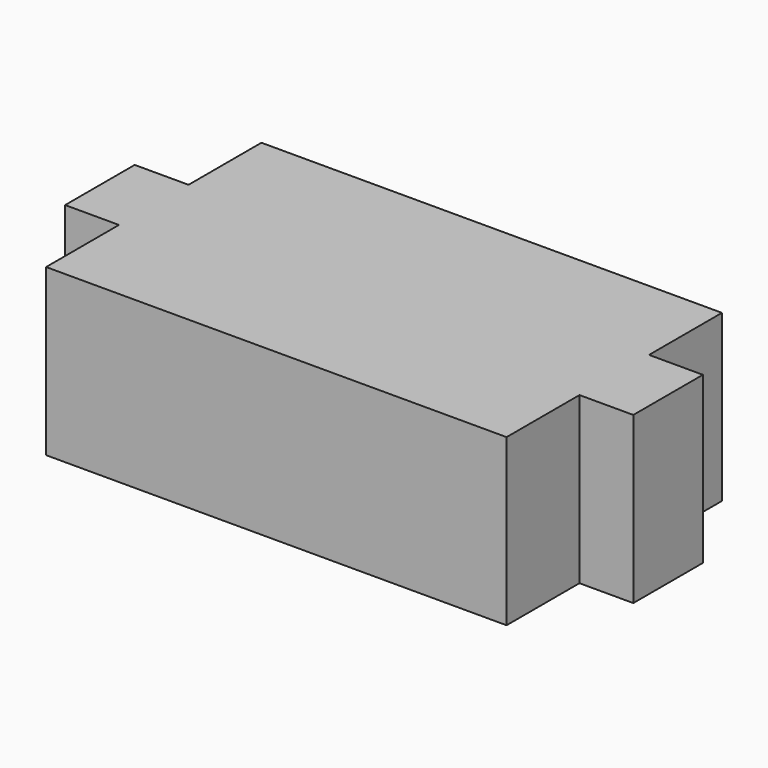
from build123d import *

# Parameters (mm, degrees)
F0_W     = 8.255
F0_H     = 13.335
F1_DEPTH = 12.7


with BuildPart() as f1:
    # F0 (on Top) → F1 (new body, symmetric)
    with BuildSketch(Plane.XY):
        Polygon((35.306, 6.6675), (35.306, 20.6375), (-35.306, 20.6375), (-35.306, 6.6675), (-35.306, -6.6675), (-35.306, -20.6375), (35.306, -20.6375), (35.306, -6.6675), align=None)
        with Locations((-39.4335, 0)):
            Rectangle(F0_W, F0_H)
        with Locations((39.4335, 0)):
            Rectangle(F0_W, F0_H)
    extrude(amount=F1_DEPTH, both=True)


solid = f1.part
